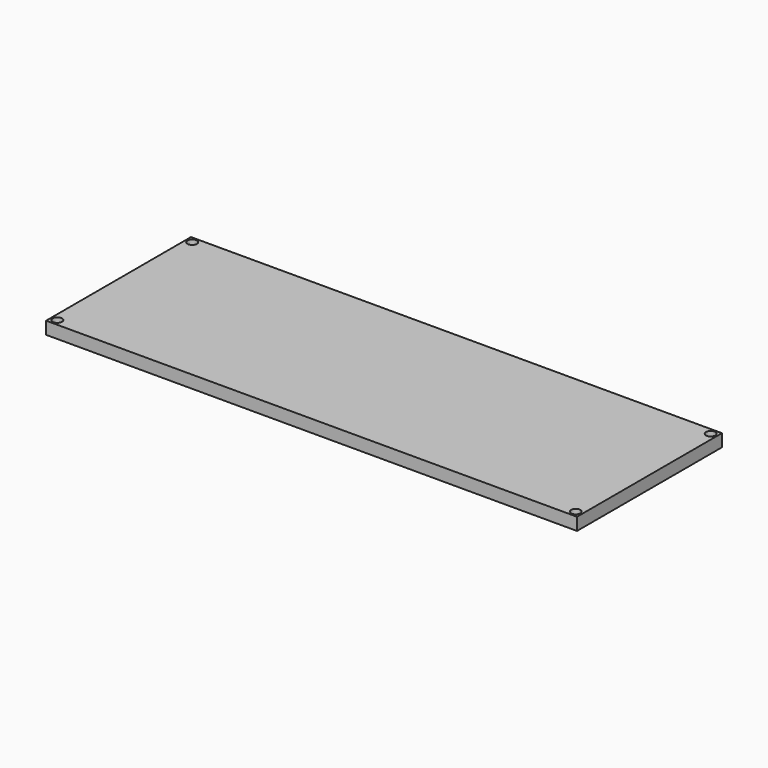
from build123d import *

# Parameters (mm, degrees)
F0_W     = 215.9
F0_H     = 73.66
F1_DEPTH = 5.08
F2_R     = 1.905
F3_DEPTH = 5.081


with BuildPart() as f1:
    # F0 (on Top) → F1 (new body)
    with BuildSketch(Plane.XY):
        with Locations((15.860999, 5.863788)):
            Rectangle(F0_W, F0_H)
    extrude(amount=F1_DEPTH)

    # F2 (on face) → F3 (cut, through all)
    with BuildSketch(Plane.XY.offset(5.08)):
        with Locations((-89.549001, 40.153788)):
            Circle(F2_R)
        with Locations((121.270999, 40.153788)):
            Circle(F2_R)
        with Locations((121.270999, -28.426212)):
            Circle(F2_R)
        with Locations((-89.549001, -28.426212)):
            Circle(F2_R)
    extrude(amount=-F3_DEPTH, mode=Mode.SUBTRACT)


solid = f1.part
